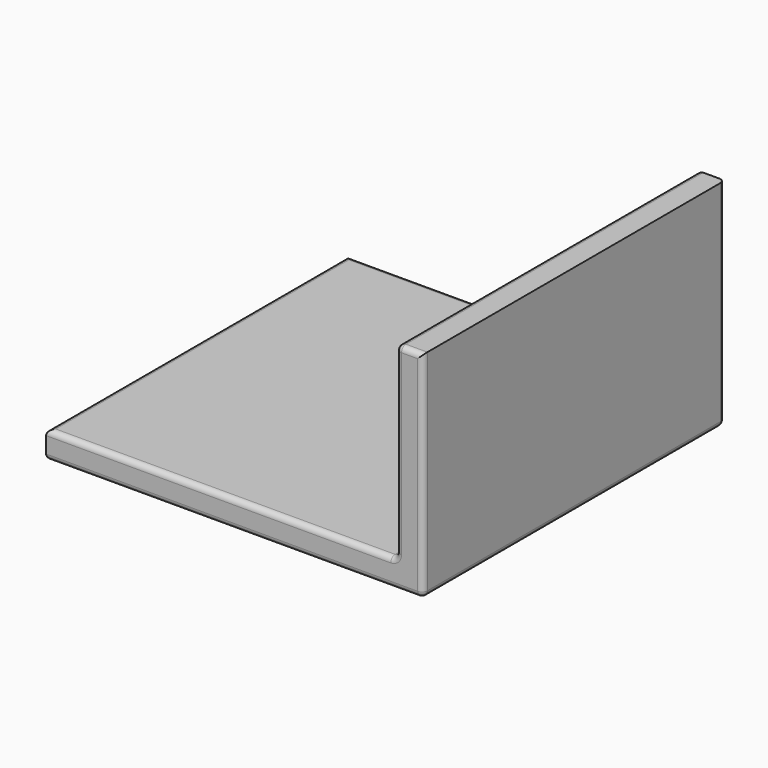
from build123d import *

# Parameters (mm, degrees)
PAD_DEPTH      = 35
PAD_DEPTH_BACK = 35
FILLET_R       = 1
SKETCH001_R    = 30
POCKET_DEPTH   = 2


with BuildPart() as part:
    # Sketch → Pad (new body, two sides)
    with BuildSketch(Plane.XZ) as pad_sk:
        Polygon((-35, -20), (35, -20), (35, 20), (30, 20), (30, -15), (-35, -15), align=None)
    extrude(amount=PAD_DEPTH)
    extrude(pad_sk.sketch, amount=-PAD_DEPTH_BACK)

    # Fillet
    fillet_edges = [part.edges().sort_by_distance(p)[0] for p in [
        (35, 0, -20),
        (-2.5, 35, -15),
        (35, 35, 0),
        (0, 35, -20),
        (-35, 0, -20),
        (-35, 0, -15),
        (-2.5, -35, -15),
        (0, -35, -20),
        (30, -35, 2.5),
        (30, 0, -15),
        (30, 35, 2.5),
        (30, 0, 20),
        (32.5, -35, 20),
        (35, -35, 0),
    ]]
    fillet(fillet_edges, radius=FILLET_R)

    # Sketch001 → Pocket (cut)
    with BuildSketch(Plane.XY.offset(-20)):
        Circle(SKETCH001_R)
    extrude(amount=POCKET_DEPTH, mode=Mode.SUBTRACT)


solid = part.part
